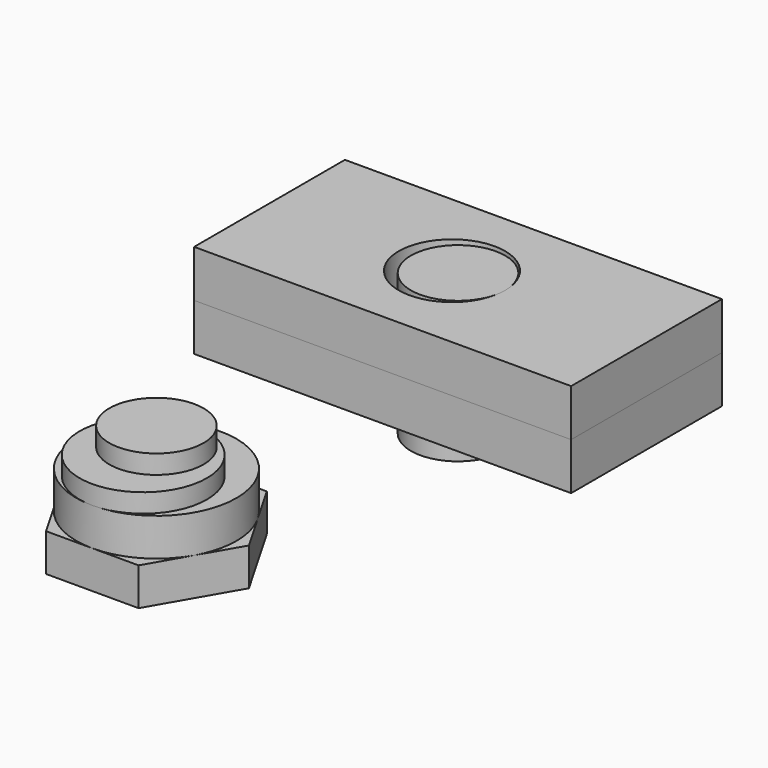
from build123d import *

# Parameters (mm, degrees)
F1_DEPTH  = 3.175
F2_W      = 25.4
F2_H      = 12.7
F2_R      = 3.5814
F3_DEPTH  = 3.175
F4_R      = 3.175
F5_DEPTH  = 9.525
F7_DEPTH  = 2.54
F8_R      = 5.3975
F9_DEPTH  = 2.54
F10_R     = 3.175
F11_DEPTH = 2.54
F12_R     = 4.28625
F13_DEPTH = 1.27


with BuildPart() as f1:
    # F0 (on Top) → F1 (new body)
    with BuildSketch(Plane.XY):
        with BuildLine():
            Line((0, 6.35), (-12.7, 6.35))
            Line((-12.7, 6.35), (-12.7, 0))
            Line((-12.7, 0), (-3.175, 0))
            ThreePointArc((-3.175, 0), (-2.265856, 2.384423), (0, 3.558267))
            Line((0, 3.558267), (0, 6.35))
        make_face()
        with BuildLine():
            Line((12.7, 6.35), (0, 6.35))
            Line((0, 6.35), (0, 3.558267))
            ThreePointArc((0, 3.558267), (2.790823, 2.672256), (3.9878, 0))
            Line((3.9878, 0), (12.7, 0))
            Line((12.7, 0), (12.7, 6.35))
        make_face()
        with BuildLine():
            Line((-3.175, 0), (-12.7, 0))
            Line((-12.7, 0), (-12.7, -6.35))
            Line((-12.7, -6.35), (0, -6.35))
            Line((0, -6.35), (0, -3.558267))
            ThreePointArc((0, -3.558267), (-2.265856, -2.384423), (-3.175, 0))
        make_face()
        with BuildLine():
            Line((12.7, -6.35), (12.7, 0))
            Line((12.7, 0), (3.9878, 0))
            ThreePointArc((3.9878, 0), (2.790823, -2.672256), (0, -3.558267))
            Line((0, -3.558267), (0, -6.35))
            Line((0, -6.35), (12.7, -6.35))
        make_face()
    extrude(amount=F1_DEPTH)


with BuildPart() as f3:
    # F2 (on face) → F3 (new body)
    with BuildSketch(Plane.XY.offset(3.175)):
        Rectangle(F2_W, F2_H)
        with Locations((-0.4064, 0)):
            Circle(F2_R, mode=Mode.SUBTRACT)
    extrude(amount=F3_DEPTH)


with BuildPart() as f5:
    # F4 (on face) → F5 (new body)
    with BuildSketch(Plane.XY.offset(6.35)):
        Circle(F4_R)
    extrude(amount=-F5_DEPTH)


with BuildPart() as f7:
    # F6 (on Top) → F7 (new body)
    with BuildSketch(Plane.XY):
        Polygon((3.116248, -30.7975), (6.232496, -25.4), (3.116248, -20.0025), (-3.116248, -20.0025), (-6.232496, -25.4), (-3.116248, -30.7975), align=None)
    extrude(amount=F7_DEPTH)

    # F8 (on face) → F9 (join)
    with BuildSketch(Plane.XY.offset(2.54)):
        with Locations((0, -25.4)):
            Circle(F8_R)
    extrude(amount=F9_DEPTH)

    # F10 (on face) → F11 (join)
    with BuildSketch(Plane.XY.offset(5.08)):
        with Locations((0, -25.4)):
            Circle(F10_R)
    extrude(amount=F11_DEPTH)

    # F12 (on face) → F13 (join)
    with BuildSketch(Plane.XY.offset(5.08)):
        with Locations((0, -26.51125)):
            Circle(F12_R)
    extrude(amount=F13_DEPTH)


solid = Compound([f1.part, f3.part, f5.part, f7.part])
